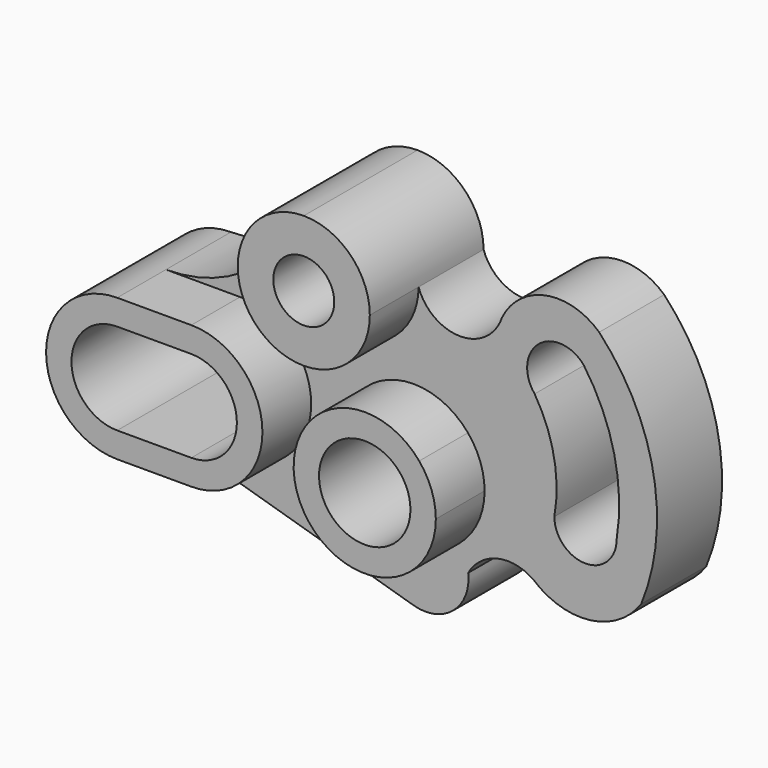
from build123d import *

# Parameters (mm, degrees)
F1_DEPTH = 25.4
F2_DEPTH = 44.45


with BuildPart() as f1:
    # F0 (on Front) → F1 (new body)
    with BuildSketch(Plane.XZ):
        with BuildLine():
            ThreePointArc((-39.6875, 49.3794158101), (-55.8319208878, 34.0674673207), (-77.3744968308, 28.4983099266))
            Line((-77.3744968308, 28.4983099266), (-54.2009934255, 28.4983099266))
            ThreePointArc((-54.2009934255, 28.4983099266), (-31.9759934255, 6.2733099266), (-54.2009934255, -15.9516900734))
            Line((-54.2009934255, -15.9516900734), (-77.3744968308, -15.9516900734))
            Line((-77.3744968308, -15.9516900734), (0, -38.6990942061))
            ThreePointArc((0, -38.6990942061), (12.4529146016, -36.068931174), (17.1085186303, -24.2233332247))
            ThreePointArc((17.1085186303, -24.2233332247), (26.2935862442, -17.2988786691), (37.5749282539, -19.544955343))
            ThreePointArc((37.5749282539, -19.544955343), (55.3627118113, -24.8347783768), (71.1983144283, -15.1589754969))
            ThreePointArc((71.1983144283, -15.1589754969), (75.0092778843, 22.014859432), (58.0413416028, 55.3091019392))
            ThreePointArc((58.0413416028, 55.3091019392), (41.3447910775, 59.999957233), (27.6341009885, 49.3794158101))
            ThreePointArc((27.6341009885, 49.3794158101), (14.6108004943, 40.0533008844), (1.5875, 49.3794158101))
            ThreePointArc((1.5875, 49.3794158101), (-4.4570838033, 34.7864996134), (-19.05, 28.7419158101))
            ThreePointArc((-19.05, 28.7419158101), (-33.6429161967, 34.7864996134), (-39.6875, 49.3794158101))
        make_face()
        with BuildLine():
            Line((44.0335609019, 0), (22.225, 0))
            ThreePointArc((22.225, 0), (-20.884668497, -7.6013976854), (17.0253377483, 14.2859546253))
            Line((17.0253377483, 14.2859546253), (37.8725077884, 31.778807317))
            ThreePointArc((37.8725077884, 31.778807317), (39.1080816416, 45.9014810832), (53.2307554079, 44.66590723))
            ThreePointArc((53.2307554079, 44.66590723), (62.7513822269, 23.341485137), (63.4919119209, 0))
            ThreePointArc((63.4919119209, 0), (53.7627364114, -9.7291755095), (44.0335609019, 0))
        make_face(mode=Mode.SUBTRACT)
        with BuildLine():
            ThreePointArc((17.0253377483, 14.2859546253), (20.884668497, 7.6013976854), (22.225, 0))
            Line((22.225, 0), (44.0335609019, 0))
            ThreePointArc((44.0335609019, 0), (43.9151265207, 16.4636733924), (37.8725077884, 31.778807317))
            Line((37.8725077884, 31.778807317), (17.0253377483, 14.2859546253))
        make_face()
    extrude(amount=F1_DEPTH)

    # F0 (on Front) → F2 (join)
    with BuildSketch(Plane.XZ):
        with BuildLine():
            ThreePointArc((-19.05, 70.0169158101), (-33.6429161967, 63.9723320068), (-39.6875, 49.3794158101))
            ThreePointArc((-39.6875, 49.3794158101), (-33.6429161967, 34.7864996134), (-19.05, 28.7419158101))
            Line((-19.05, 28.7419158101), (-19.05, 39.8544158101))
            ThreePointArc((-19.05, 39.8544158101), (-28.575, 49.3794158101), (-19.05, 58.9044158101))
            Line((-19.05, 58.9044158101), (-19.05, 70.0169158101))
        make_face()
        with BuildLine():
            ThreePointArc((1.5875, 49.3794158101), (-4.4570838033, 63.9723320068), (-19.05, 70.0169158101))
            Line((-19.05, 70.0169158101), (-19.05, 58.9044158101))
            ThreePointArc((-19.05, 58.9044158101), (-12.3148079092, 56.1146079009), (-9.525, 49.3794158101))
            Line((-9.525, 49.3794158101), (1.5875, 49.3794158101))
        make_face()
        with BuildLine():
            Line((-19.05, 39.8544158101), (-19.05, 28.7419158101))
            ThreePointArc((-19.05, 28.7419158101), (-4.4570838033, 34.7864996134), (1.5875, 49.3794158101))
            Line((1.5875, 49.3794158101), (-9.525, 49.3794158101))
            ThreePointArc((-9.525, 49.3794158101), (-12.3148079092, 42.6442237193), (-19.05, 39.8544158101))
        make_face()
        with BuildLine():
            Line((-54.2009934255, 28.4983099266), (-77.3744968308, 28.4983099266))
            ThreePointArc((-77.3744968308, 28.4983099266), (-99.5994968308, 6.2733099266), (-77.3744968308, -15.9516900734))
            Line((-77.3744968308, -15.9516900734), (-54.2009934255, -15.9516900734))
            ThreePointArc((-54.2009934255, -15.9516900734), (-31.9759934255, 6.2733099266), (-54.2009934255, 28.4983099266))
        make_face()
        with BuildLine():
            ThreePointArc((-77.3744968308, -8.0141900734), (-91.6619968308, 6.2733099266), (-77.3744968308, 20.5608099266))
            Line((-77.3744968308, 20.5608099266), (-54.2009934255, 20.5608099266))
            ThreePointArc((-54.2009934255, 20.5608099266), (-39.9668250993, 6.2733099266), (-54.2009934255, -8.0141900734))
            Line((-54.2009934255, -8.0141900734), (-77.3744968308, -8.0141900734))
        make_face(mode=Mode.SUBTRACT)
        with BuildLine():
            Line((22.225, 0), (14.2875, 0))
            ThreePointArc((14.2875, 0), (-13.4258583195, -4.8866127978), (10.9448599811, 9.1838279734))
            Line((10.9448599811, 9.1838279734), (17.0253377483, 14.2859546253))
            ThreePointArc((17.0253377483, 14.2859546253), (-20.884668497, -7.6013976854), (22.225, 0))
        make_face()
        with BuildLine():
            ThreePointArc((10.9448599811, 9.1838279734), (13.4258583195, 4.8866127978), (14.2875, 0))
            Line((14.2875, 0), (22.225, 0))
            ThreePointArc((22.225, 0), (20.884668497, 7.6013976854), (17.0253377483, 14.2859546253))
            Line((17.0253377483, 14.2859546253), (10.9448599811, 9.1838279734))
        make_face()
    extrude(amount=F2_DEPTH)


solid = f1.part
